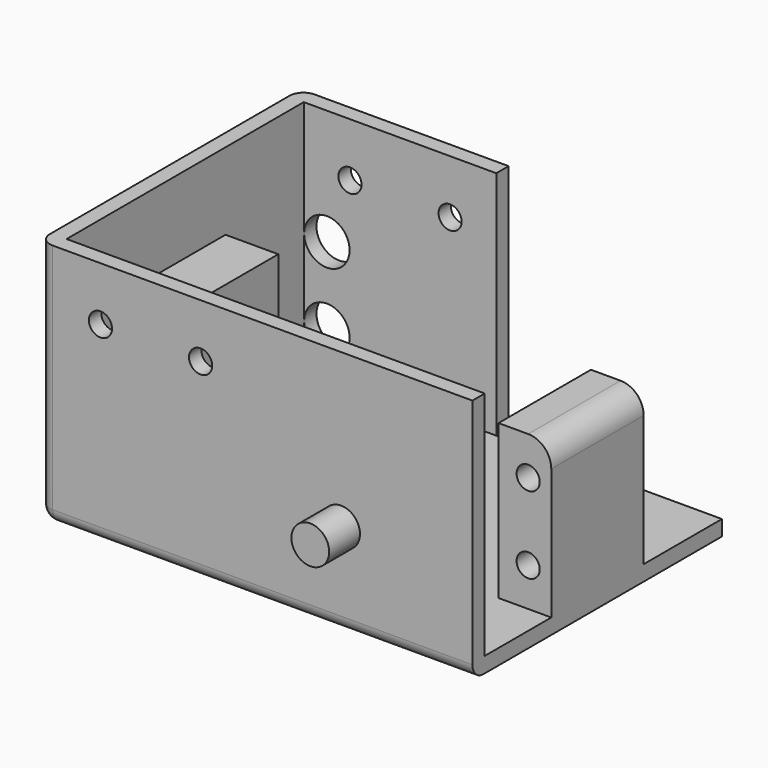
from build123d import *

# Parameters (mm, degrees)
SKETCH_W        = 54.3
SKETCH_H        = 38.5
PAD_DEPTH       = 2
SKETCH003_W     = 6.85
SKETCH003_H     = 15
PAD001_DEPTH    = 20
SKETCH001_W     = 54.3
SKETCH001_H     = 2
PAD003_DEPTH    = 32
SKETCH005_W     = 6.85
SKETCH005_H     = 15
PAD004_DEPTH    = 20
SKETCH002_R     = 2.45
PAD005_DEPTH    = 5
SKETCH007_W     = 25
SKETCH007_H     = 32
PAD006_DEPTH    = 2
SKETCH006_R     = 1.5
POCKET_DEPTH    = 15
SKETCH004_R     = 1.5
POCKET001_DEPTH = 20
SKETCH009_R     = 1.5
SKETCH009_R_2   = 2.95
POCKET002_DEPTH = 2
SKETCH008_R     = 1.5
POCKET003_DEPTH = 3
SKETCH010_W     = 42.5
SKETCH010_H     = 32
PAD007_DEPTH    = 2
FILLET_R        = 1.8
FILLET001_R     = 1.8
FILLET002_R     = 1.8
FILLET003_R     = 3


with BuildPart() as part:
    # Sketch → Pad (new body)
    with BuildSketch(Plane.XY):
        with Locations((27.15, 21.25)):
            Rectangle(SKETCH_W, SKETCH_H)
    extrude(amount=PAD_DEPTH)

    # Sketch003 → Pad001 (join)
    with BuildSketch(Plane.XY.offset(2)):
        with Locations((3.425, 20.3)):
            Rectangle(SKETCH003_W, SKETCH003_H)
    extrude(amount=PAD001_DEPTH)

    # Sketch001 → Pad003 (join)
    with BuildSketch(Plane.XY):
        with Locations((27.15, 1)):
            Rectangle(SKETCH001_W, SKETCH001_H)
    extrude(amount=PAD003_DEPTH)

    # Sketch005 (on Face5 of Pad003) → Pad004 (join)
    with BuildSketch(Plane.XY.offset(2)):
        with Locations((50.875, 20.3)):
            Rectangle(SKETCH005_W, SKETCH005_H)
    extrude(amount=PAD004_DEPTH)

    # Sketch002 (on Face18 of Pad004) → Pad005 (join)
    with BuildSketch(Plane.XZ):
        with Locations((37.25, 12)):
            Circle(SKETCH002_R)
    extrude(amount=PAD005_DEPTH)

    # Sketch007 (on Face1 of Pad005) → Pad006 (join)
    with BuildSketch(Plane(origin=(0, 40.5, 0), x_dir=(-1, 0, 0), z_dir=(0, 1, 0))):
        with Locations((-12.5, 16)):
            Rectangle(SKETCH007_W, SKETCH007_H)
    extrude(amount=PAD006_DEPTH)

    # Sketch006 (on Face14 of Pad006) → Pocket (cut)
    with BuildSketch(Plane.XZ.offset(-12.8)):
        with Locations((51.3, 17)):
            Circle(SKETCH006_R)
        with Locations((51.3, 7)):
            Circle(SKETCH006_R)
    extrude(amount=-POCKET_DEPTH, mode=Mode.SUBTRACT)

    # Sketch004 (on Face16 of Pocket) → Pocket001 (cut)
    with BuildSketch(Plane.XZ.offset(-12.8)):
        with Locations((3, 17)):
            Circle(SKETCH004_R)
        with Locations((3, 7)):
            Circle(SKETCH004_R)
    extrude(amount=-POCKET001_DEPTH, mode=Mode.SUBTRACT)

    # Sketch009 (on Face20 of Pocket001) → Pocket002 (cut)
    with BuildSketch(Plane(origin=(0, 42.5, 0), x_dir=(-1, 0, 0), z_dir=(0, 1, 0))):
        with Locations((-6, 25)):
            Circle(SKETCH009_R)
        with Locations((-19, 25)):
            Circle(SKETCH009_R)
        with Locations((-3, 7)):
            Circle(SKETCH009_R_2)
        with Locations((-3, 17)):
            Circle(SKETCH009_R_2)
    extrude(amount=-POCKET002_DEPTH, mode=Mode.SUBTRACT)

    # Sketch008 → Pocket003 (cut)
    with BuildSketch(Plane.XZ):
        with Locations((19, 25)):
            Circle(SKETCH008_R)
        with Locations((6, 25)):
            Circle(SKETCH008_R)
    extrude(amount=-POCKET003_DEPTH, mode=Mode.SUBTRACT)

    # Sketch010 (on Face8 of Pocket003) → Pad007 (join)
    with BuildSketch(Plane(origin=(0, 0, 0), x_dir=(0, -1, 0), z_dir=(-1, 0, 0))):
        with Locations((-21.25, 16)):
            Rectangle(SKETCH010_W, SKETCH010_H)
    extrude(amount=PAD007_DEPTH)

    # Fillet
    fillet_edges = [part.edges().sort_by_distance(p)[0] for p in [
        (-2, 42.5, 16),
    ]]
    fillet(fillet_edges, radius=FILLET_R)

    # Fillet001
    fillet001_edges = [part.edges().sort_by_distance(p)[0] for p in [
        (-2, 0, 16),
    ]]
    fillet(fillet001_edges, radius=FILLET001_R)

    # Fillet002
    fillet002_edges = [part.edges().sort_by_distance(p)[0] for p in [
        (-2, 21.25, 0),
    ]]
    fillet(fillet002_edges, radius=FILLET002_R)

    # Fillet003
    fillet003_edges = [part.edges().sort_by_distance(p)[0] for p in [
        (54.3, 20.3, 22),
    ]]
    fillet(fillet003_edges, radius=FILLET003_R)


solid = part.part
